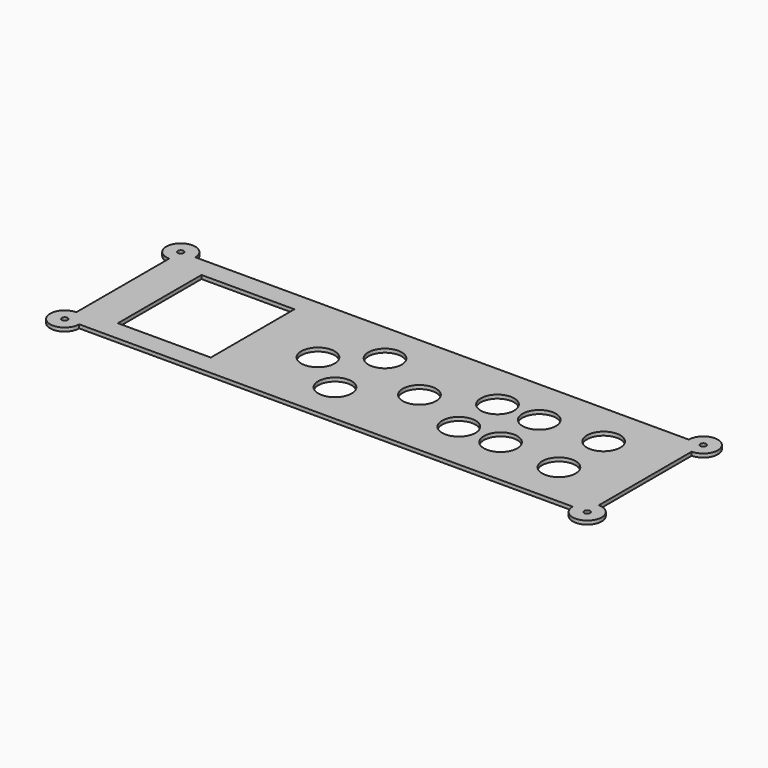
from build123d import *

# Parameters (mm, degrees)
F0_R     = 2.54
F0_W     = 81.28
F0_H     = 91.44
F0_R_2   = 14.605
F1_DEPTH = 3.175


with BuildPart() as f1:
    # F0 (on Top) → F1 (new body)
    with BuildSketch(Plane.XY):
        with BuildLine():
            ThreePointArc((0, 12.7), (-8.980256, -8.980256), (12.7, 0))
            Line((12.7, 0), (444.5, 0))
            ThreePointArc((444.5, 0), (466.180256, -8.980256), (457.2, 12.7))
            Line((457.2, 12.7), (457.2, 114.3))
            ThreePointArc((457.2, 114.3), (466.180256, 135.980256), (444.5, 127))
            Line((444.5, 127), (12.7, 127))
            ThreePointArc((12.7, 127), (-8.980256, 135.980256), (0, 114.3))
            Line((0, 114.3), (0, 12.7))
        make_face()
        Circle(F0_R, mode=Mode.SUBTRACT)
        with Locations((72.991565, 63.5)):
            Rectangle(F0_W, F0_H, mode=Mode.SUBTRACT)
        with Locations((207.432806, 36.346115)):
            Circle(F0_R_2, mode=Mode.SUBTRACT)
        with Locations((457.2, 0)):
            Circle(F0_R, mode=Mode.SUBTRACT)
        with Locations((309.938095, 43.678654)):
            Circle(F0_R_2, mode=Mode.SUBTRACT)
        with Locations((346.480779, 43.678654)):
            Circle(F0_R_2, mode=Mode.SUBTRACT)
        with Locations((400.783628, 39.574253)):
            Circle(F0_R_2, mode=Mode.SUBTRACT)
        with Locations((170.657456, 63.713811)):
            Circle(F0_R_2, mode=Mode.SUBTRACT)
        with Locations((207.432806, 91.081508)):
            Circle(F0_R_2, mode=Mode.SUBTRACT)
        with Locations((0, 127)):
            Circle(F0_R, mode=Mode.SUBTRACT)
        with Locations((259.465441, 63.713811)):
            Circle(F0_R_2, mode=Mode.SUBTRACT)
        with Locations((309.938095, 85.946283)):
            Circle(F0_R_2, mode=Mode.SUBTRACT)
        with Locations((346.480779, 85.946283)):
            Circle(F0_R_2, mode=Mode.SUBTRACT)
        with Locations((400.783628, 88.493755)):
            Circle(F0_R_2, mode=Mode.SUBTRACT)
        with Locations((457.2, 127)):
            Circle(F0_R, mode=Mode.SUBTRACT)
    extrude(amount=F1_DEPTH)


solid = f1.part
